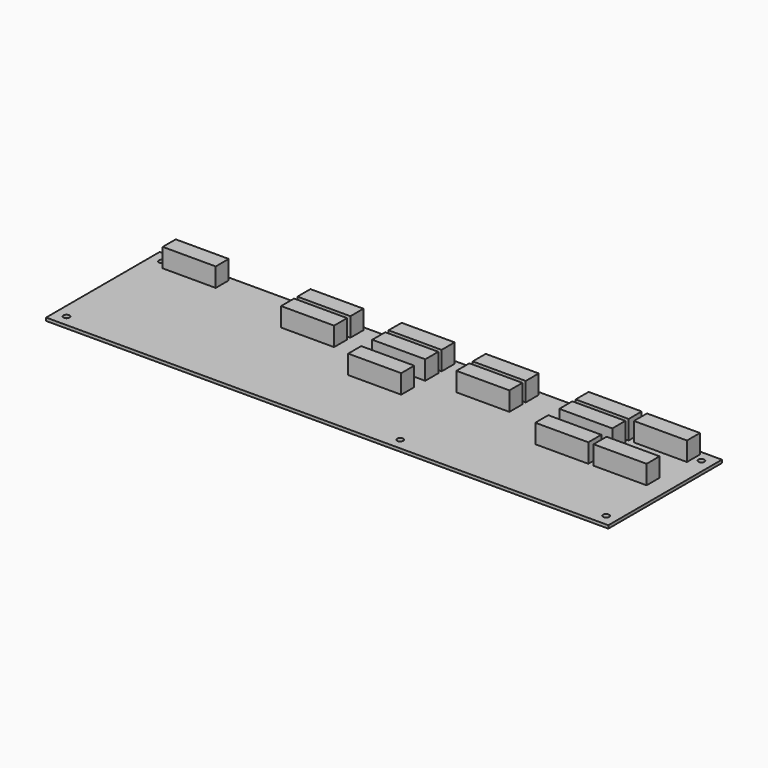
from build123d import *

# Parameters (mm, degrees)
SKETCH004_W      = 297
SKETCH004_H      = 75
SKETCH004_R      = 1.6
EXTRUDE004_DEPTH = 1.6
SKETCH005_W      = 28
SKETCH005_H      = 8.6
EXTRUDE005_DEPTH = 10


with BuildPart() as extrude004:
    # Sketch004 → Extrude004 (new body)
    with BuildSketch(Plane.XY.offset(38)):
        with Locations((148.5, 37.5)):
            Rectangle(SKETCH004_W, SKETCH004_H)
        with Locations((6, 69)):
            Circle(SKETCH004_R, mode=Mode.SUBTRACT)
        with Locations((6, 6)):
            Circle(SKETCH004_R, mode=Mode.SUBTRACT)
        with Locations((291, 69)):
            Circle(SKETCH004_R, mode=Mode.SUBTRACT)
        with Locations((291, 6)):
            Circle(SKETCH004_R, mode=Mode.SUBTRACT)
        with Locations((71.45, 69)):
            Circle(SKETCH004_R, mode=Mode.SUBTRACT)
        with Locations((182.245, 6)):
            Circle(SKETCH004_R, mode=Mode.SUBTRACT)
    extrude(amount=EXTRUDE004_DEPTH)


with BuildPart() as obj1:
    # Sketch005 (on Face12 of Extrude004) → Extrude005 (new body)
    with BuildSketch(Plane.XY.offset(39.6)):
        with Locations((187.88, 68.65)):
            Rectangle(SKETCH005_W, SKETCH005_H)
        with Locations((187.88, 57.86)):
            Rectangle(SKETCH005_W, SKETCH005_H)
        with Locations((143.44, 68.65)):
            Rectangle(SKETCH005_W, SKETCH005_H)
        with Locations((143.44, 57.86)):
            Rectangle(SKETCH005_W, SKETCH005_H)
        with Locations((143.44, 41.985)):
            Rectangle(SKETCH005_W, SKETCH005_H)
        with Locations((24.13, 68.65)):
            Rectangle(SKETCH005_W, SKETCH005_H)
        with Locations((273.05, 68.65)):
            Rectangle(SKETCH005_W, SKETCH005_H)
        with Locations((273.05, 41.985)):
            Rectangle(SKETCH005_W, SKETCH005_H)
        with Locations((95.28, 68.65)):
            Rectangle(SKETCH005_W, SKETCH005_H)
        with Locations((95.28, 57.86)):
            Rectangle(SKETCH005_W, SKETCH005_H)
        with Locations((242.252, 68.65)):
            Rectangle(SKETCH005_W, SKETCH005_H)
        with Locations((242.252, 57.86)):
            Rectangle(SKETCH005_W, SKETCH005_H)
        with Locations((242.252, 41.985)):
            Rectangle(SKETCH005_W, SKETCH005_H)
    extrude(amount=EXTRUDE005_DEPTH)

    # Fusion001: union Extrude004
    add(extrude004.part)


solid = obj1.part
